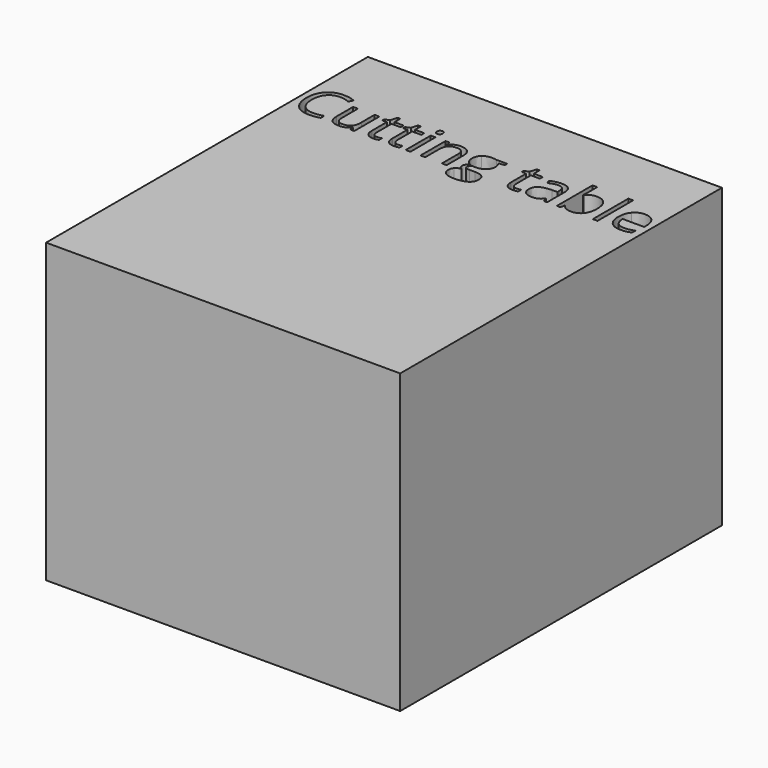
from build123d import *

# Parameters (mm, degrees)
F0_W     = 1028.7
F0_H     = 1168.4
F0_W_2   = 13.7929374837
F0_H_2   = 91.0227569971
F0_H_3   = 129.2390269422
F1_DEPTH = 863.6


with BuildPart() as f1:
    # F0 (on Top) → F1 (new body)
    with BuildSketch(Plane.XY):
        Rectangle(F0_W, F0_H)
        with BuildLine():
            add(Edge.make_bspline(
                [(-411.7417734763, 384.6701509605), (-425.53471096, 391.1281159095), (-439.3276484436, 391.1281159095)],
                knots=[0, 0, 0, 1, 1, 1], degree=2))
            add(Edge.make_bspline(
                [(-439.3276484436, 391.1281159095), (-459.3393669893, 391.1281159095), (-470.926497515, 377.8002582061)],
                knots=[0, 0, 0, 1, 1, 1], degree=2))
            add(Edge.make_bspline(
                [(-470.926497515, 377.8002582061), (-482.5136280408, 364.4724005027), (-482.5136280408, 341.2981394512)],
                knots=[0, 0, 0, 1, 1, 1], degree=2))
            add(Edge.make_bspline(
                [(-482.5136280408, 341.2981394512), (-482.5136280408, 317.486054701), (-471.3384253204, 304.4771088469)],
                knots=[0, 0, 0, 1, 1, 1], degree=2))
            add(Edge.make_bspline(
                [(-471.3384253204, 304.4771088469), (-460.1632226001, 291.4681629929), (-439.4871043683, 291.4681629929)],
                knots=[0, 0, 0, 1, 1, 1], degree=2))
            add(Edge.make_bspline(
                [(-439.4871043683, 291.4681629929), (-426.7837823699, 291.4681629929), (-410.4927020664, 296.0392328333)],
                knots=[0, 0, 0, 1, 1, 1], degree=2))
            Line((-410.4927020664, 296.0392328333), (-410.4927020664, 283.6813986717))
            add(Edge.make_bspline(
                [(-410.4927020664, 283.6813986717), (-423.1162961025, 278.9242969191), (-441.6397593513, 278.9242969191)],
                knots=[0, 0, 0, 1, 1, 1], degree=2))
            add(Edge.make_bspline(
                [(-441.6397593513, 278.9242969191), (-468.4549306827, 278.9242969191), (-483.031859796, 295.2153772226)],
                knots=[0, 0, 0, 1, 1, 1], degree=2))
            add(Edge.make_bspline(
                [(-483.031859796, 295.2153772226), (-497.6087889092, 311.506457526), (-497.6087889092, 341.4841713633)],
                knots=[0, 0, 0, 1, 1, 1], degree=2))
            add(Edge.make_bspline(
                [(-497.6087889092, 341.4841713633), (-497.6087889092, 360.246818499), (-490.5927282239, 374.358667832)],
                knots=[0, 0, 0, 1, 1, 1], degree=2))
            add(Edge.make_bspline(
                [(-490.5927282239, 374.358667832), (-483.5766675386, 388.470517165), (-470.3285377975, 396.1111135553)],
                knots=[0, 0, 0, 1, 1, 1], degree=2))
            add(Edge.make_bspline(
                [(-470.3285377975, 396.1111135553), (-457.0804080565, 403.7517099456), (-439.1416165315, 403.7517099456)],
                knots=[0, 0, 0, 1, 1, 1], degree=2))
            add(Edge.make_bspline(
                [(-439.1416165315, 403.7517099456), (-420.0600575464, 403.7517099456), (-405.7621763013, 396.7888012351)],
                knots=[0, 0, 0, 1, 1, 1], degree=2))
            Line((-405.7621763013, 396.7888012351), (-411.7417734763, 384.6701509605))
        make_face(mode=Mode.SUBTRACT)
        with BuildLine():
            Line((-387.0526811405, 371.6213411253), (-373.1002877321, 371.6213411253))
            Line((-373.1002877321, 371.6213411253), (-373.1002877321, 312.5694970238))
            add(Edge.make_bspline(
                [(-373.1002877321, 312.5694970238), (-373.1002877321, 301.4341582846), (-368.037562124, 295.959504871)],
                knots=[0, 0, 0, 1, 1, 1], degree=2))
            add(Edge.make_bspline(
                [(-368.037562124, 295.959504871), (-362.9748365158, 290.4848514575), (-352.1849856134, 290.4848514575)],
                knots=[0, 0, 0, 1, 1, 1], degree=2))
            add(Edge.make_bspline(
                [(-352.1849856134, 290.4848514575), (-337.8871043683, 290.4848514575), (-331.2962594821, 298.2849037724)],
                knots=[0, 0, 0, 1, 1, 1], degree=2))
            add(Edge.make_bspline(
                [(-331.2962594821, 298.2849037724), (-324.7054145959, 306.0849560873), (-324.7054145959, 323.7845637253)],
                knots=[0, 0, 0, 1, 1, 1], degree=2))
            Line((-324.7054145959, 323.7845637253), (-324.7054145959, 371.6213411253))
            Line((-324.7054145959, 371.6213411253), (-310.9124771122, 371.6213411253))
            Line((-310.9124771122, 371.6213411253), (-310.9124771122, 280.5985841281))
            Line((-310.9124771122, 280.5985841281), (-322.2869997384, 280.5985841281))
            Line((-322.2869997384, 280.5985841281), (-324.2801987968, 292.7969623651))
            Line((-324.2801987968, 292.7969623651), (-325.0243264452, 292.7969623651))
            add(Edge.make_bspline(
                [(-325.0243264452, 292.7969623651), (-329.2499084489, 286.0732375417), (-336.7709128956, 282.4987672304)],
                knots=[0, 0, 0, 1, 1, 1], degree=2))
            add(Edge.make_bspline(
                [(-336.7709128956, 282.4987672304), (-344.2919173424, 278.9242969191), (-353.9390007847, 278.9242969191)],
                knots=[0, 0, 0, 1, 1, 1], degree=2))
            add(Edge.make_bspline(
                [(-353.9390007847, 278.9242969191), (-370.5489929375, 278.9242969191), (-378.800837039, 286.8173651901)],
                knots=[0, 0, 0, 1, 1, 1], degree=2))
            add(Edge.make_bspline(
                [(-378.800837039, 286.8173651901), (-387.0526811405, 294.7104334611), (-387.0526811405, 312.0645532623)],
                knots=[0, 0, 0, 1, 1, 1], degree=2))
            Line((-387.0526811405, 312.0645532623), (-387.0526811405, 371.6213411253))
        make_face(mode=Mode.SUBTRACT)
        with BuildLine():
            add(Edge.make_bspline(
                [(-262.9959717499, 294.7237214548), (-259.0893015956, 290.3253955328), (-252.2858488098, 290.3253955328)],
                knots=[0, 0, 0, 1, 1, 1], degree=2))
            add(Edge.make_bspline(
                [(-252.2858488098, 290.3253955328), (-248.6183625425, 290.3253955328), (-245.2166361496, 290.8569152817)],
                knots=[0, 0, 0, 1, 1, 1], degree=2))
            add(Edge.make_bspline(
                [(-245.2166361496, 290.8569152817), (-241.8149097567, 291.3884350306), (-239.8217106984, 291.9731067543)],
                knots=[0, 0, 0, 1, 1, 1], degree=2))
            Line((-239.8217106984, 291.9731067543), (-239.8217106984, 281.4224397389))
            add(Edge.make_bspline(
                [(-239.8217106984, 281.4224397389), (-242.0540936437, 280.3594002411), (-246.4125555846, 279.6418485801)],
                knots=[0, 0, 0, 1, 1, 1], degree=2))
            add(Edge.make_bspline(
                [(-246.4125555846, 279.6418485801), (-250.7710175255, 278.9242969191), (-254.2790478682, 278.9242969191)],
                knots=[0, 0, 0, 1, 1, 1], degree=2))
            add(Edge.make_bspline(
                [(-254.2790478682, 278.9242969191), (-280.6690034005, 278.9242969191), (-280.6690034005, 306.7493557734)],
                knots=[0, 0, 0, 1, 1, 1], degree=2))
            Line((-280.6690034005, 306.7493557734), (-280.6690034005, 360.9112181852))
            Line((-280.6690034005, 360.9112181852), (-293.7178132357, 360.9112181852))
            Line((-293.7178132357, 360.9112181852), (-293.7178132357, 367.5552150463))
            Line((-293.7178132357, 367.5552150463), (-280.6690034005, 373.2956283343))
            Line((-280.6690034005, 373.2956283343), (-274.8754381376, 392.7226751561))
            Line((-274.8754381376, 392.7226751561), (-266.9026419043, 392.7226751561))
            Line((-266.9026419043, 392.7226751561), (-266.9026419043, 371.6213411253))
            Line((-266.9026419043, 371.6213411253), (-240.4861103845, 371.6213411253))
            Line((-240.4861103845, 371.6213411253), (-240.4861103845, 360.9112181852))
            Line((-240.4861103845, 360.9112181852), (-266.9026419043, 360.9112181852))
            Line((-266.9026419043, 360.9112181852), (-266.9026419043, 307.3340274972))
            add(Edge.make_bspline(
                [(-266.9026419043, 307.3340274972), (-266.9026419043, 299.1220473769), (-262.9959717499, 294.7237214548)],
                knots=[0, 0, 0, 1, 1, 1], degree=2))
        make_face(mode=Mode.SUBTRACT)
        with BuildLine():
            add(Edge.make_bspline(
                [(-202.960816113, 294.7237214548), (-199.0541459587, 290.3253955328), (-192.2506931729, 290.3253955328)],
                knots=[0, 0, 0, 1, 1, 1], degree=2))
            add(Edge.make_bspline(
                [(-192.2506931729, 290.3253955328), (-188.5832069056, 290.3253955328), (-185.1814805127, 290.8569152817)],
                knots=[0, 0, 0, 1, 1, 1], degree=2))
            add(Edge.make_bspline(
                [(-185.1814805127, 290.8569152817), (-181.7797541198, 291.3884350306), (-179.7865550615, 291.9731067543)],
                knots=[0, 0, 0, 1, 1, 1], degree=2))
            Line((-179.7865550615, 291.9731067543), (-179.7865550615, 281.4224397389))
            add(Edge.make_bspline(
                [(-179.7865550615, 281.4224397389), (-182.0189380068, 280.3594002411), (-186.3773999477, 279.6418485801)],
                knots=[0, 0, 0, 1, 1, 1], degree=2))
            add(Edge.make_bspline(
                [(-186.3773999477, 279.6418485801), (-190.7358618886, 278.9242969191), (-194.2438922312, 278.9242969191)],
                knots=[0, 0, 0, 1, 1, 1], degree=2))
            add(Edge.make_bspline(
                [(-194.2438922312, 278.9242969191), (-220.6338477635, 278.9242969191), (-220.6338477635, 306.7493557734)],
                knots=[0, 0, 0, 1, 1, 1], degree=2))
            Line((-220.6338477635, 306.7493557734), (-220.6338477635, 360.9112181852))
            Line((-220.6338477635, 360.9112181852), (-233.6826575987, 360.9112181852))
            Line((-233.6826575987, 360.9112181852), (-233.6826575987, 367.5552150463))
            Line((-233.6826575987, 367.5552150463), (-220.6338477635, 373.2956283343))
            Line((-220.6338477635, 373.2956283343), (-214.8402825007, 392.7226751561))
            Line((-214.8402825007, 392.7226751561), (-206.8674862673, 392.7226751561))
            Line((-206.8674862673, 392.7226751561), (-206.8674862673, 371.6213411253))
            Line((-206.8674862673, 371.6213411253), (-180.4509547476, 371.6213411253))
            Line((-180.4509547476, 371.6213411253), (-180.4509547476, 360.9112181852))
            Line((-180.4509547476, 360.9112181852), (-206.8674862673, 360.9112181852))
            Line((-206.8674862673, 360.9112181852), (-206.8674862673, 307.3340274972))
            add(Edge.make_bspline(
                [(-206.8674862673, 307.3340274972), (-206.8674862673, 299.1220473769), (-202.960816113, 294.7237214548)],
                knots=[0, 0, 0, 1, 1, 1], degree=2))
        make_face(mode=Mode.SUBTRACT)
        with Locations((-154.7121109077, 326.1099626267)):
            Rectangle(F0_W_2, F0_H_2, mode=Mode.SUBTRACT)
        with BuildLine():
            add(Edge.make_bspline(
                [(-160.4525241957, 389.3475247507), (-162.777923097, 391.6330596709), (-162.777923097, 396.2838574737)],
                knots=[0, 0, 0, 1, 1, 1], degree=2))
            add(Edge.make_bspline(
                [(-162.777923097, 396.2838574737), (-162.777923097, 401.0143832388), (-160.4525241957, 403.2201901967)],
                knots=[0, 0, 0, 1, 1, 1], degree=2))
            add(Edge.make_bspline(
                [(-160.4525241957, 403.2201901967), (-158.1271252943, 405.4259971546), (-154.6190949516, 405.4259971546)],
                knots=[0, 0, 0, 1, 1, 1], degree=2))
            add(Edge.make_bspline(
                [(-154.6190949516, 405.4259971546), (-151.2970965211, 405.4259971546), (-148.8919696573, 403.1803262155)],
                knots=[0, 0, 0, 1, 1, 1], degree=2))
            add(Edge.make_bspline(
                [(-148.8919696573, 403.1803262155), (-146.4868427936, 400.9346552764), (-146.4868427936, 396.2838574737)],
                knots=[0, 0, 0, 1, 1, 1], degree=2))
            add(Edge.make_bspline(
                [(-146.4868427936, 396.2838574737), (-146.4868427936, 391.6330596709), (-148.8919696573, 389.3475247507)],
                knots=[0, 0, 0, 1, 1, 1], degree=2))
            add(Edge.make_bspline(
                [(-148.8919696573, 389.3475247507), (-151.2970965211, 387.0619898305), (-154.6190949516, 387.0619898305)],
                knots=[0, 0, 0, 1, 1, 1], degree=2))
            add(Edge.make_bspline(
                [(-154.6190949516, 387.0619898305), (-158.1271252943, 387.0619898305), (-160.4525241957, 389.3475247507)],
                knots=[0, 0, 0, 1, 1, 1], degree=2))
        make_face(mode=Mode.SUBTRACT)
        with BuildLine():
            Line((-42.4950039236, 280.5985841281), (-56.2879414073, 280.5985841281))
            Line((-56.2879414073, 280.5985841281), (-56.2879414073, 339.490972305))
            add(Edge.make_bspline(
                [(-56.2879414073, 339.490972305), (-56.2879414073, 350.5997350567), (-61.3506670154, 356.087676464)],
                knots=[0, 0, 0, 1, 1, 1], degree=2))
            add(Edge.make_bspline(
                [(-61.3506670154, 356.087676464), (-66.4133926236, 361.5756178713), (-77.2298195135, 361.5756178713)],
                knots=[0, 0, 0, 1, 1, 1], degree=2))
            add(Edge.make_bspline(
                [(-77.2298195135, 361.5756178713), (-91.5011247711, 361.5756178713), (-98.1451216322, 353.8552935187)],
                knots=[0, 0, 0, 1, 1, 1], degree=2))
            add(Edge.make_bspline(
                [(-98.1451216322, 353.8552935187), (-104.7891184933, 346.1349691661), (-104.7891184933, 328.3556335658)],
                knots=[0, 0, 0, 1, 1, 1], degree=2))
            Line((-104.7891184933, 328.3556335658), (-104.7891184933, 280.5985841281))
            Line((-104.7891184933, 280.5985841281), (-118.582055977, 280.5985841281))
            Line((-118.582055977, 280.5985841281), (-118.582055977, 371.6213411253))
            Line((-118.582055977, 371.6213411253), (-107.3669892754, 371.6213411253))
            Line((-107.3669892754, 371.6213411253), (-105.1346063301, 359.1572030138))
            Line((-105.1346063301, 359.1572030138), (-104.470206644, 359.1572030138))
            add(Edge.make_bspline(
                [(-104.470206644, 359.1572030138), (-100.2180486529, 365.8809278373), (-92.5774522626, 369.5882780858)],
                knots=[0, 0, 0, 1, 1, 1], degree=2))
            add(Edge.make_bspline(
                [(-92.5774522626, 369.5882780858), (-84.9368558724, 373.2956283343), (-75.5555323045, 373.2956283343)],
                knots=[0, 0, 0, 1, 1, 1], degree=2))
            add(Edge.make_bspline(
                [(-75.5555323045, 373.2956283343), (-59.1049960764, 373.2956283343), (-50.8, 365.3626960821)],
                knots=[0, 0, 0, 1, 1, 1], degree=2))
            add(Edge.make_bspline(
                [(-50.8, 365.3626960821), (-42.4950039236, 357.4297638299), (-42.4950039236, 339.969340079)],
                knots=[0, 0, 0, 1, 1, 1], degree=2))
            Line((-42.4950039236, 339.969340079), (-42.4950039236, 280.5985841281))
        make_face(mode=Mode.SUBTRACT)
        with BuildLine():
            Line((28.8349463772, 371.6213411253), (60.3009155114, 371.6213411253))
            Line((60.3009155114, 371.6213411253), (60.3009155114, 362.9044172435))
            Line((60.3009155114, 362.9044172435), (43.4517394716, 360.9112181852))
            add(Edge.make_bspline(
                [(43.4517394716, 360.9112181852), (45.7638503793, 358.0144355537), (47.5975935129, 353.3104857761)],
                knots=[0, 0, 0, 1, 1, 1], degree=2))
            add(Edge.make_bspline(
                [(47.5975935129, 353.3104857761), (49.4313366466, 348.6065359984), (49.4313366466, 342.7332427732)],
                knots=[0, 0, 0, 1, 1, 1], degree=2))
            add(Edge.make_bspline(
                [(49.4313366466, 342.7332427732), (49.4313366466, 329.3389451012), (40.2891969657, 321.3661488679)],
                knots=[0, 0, 0, 1, 1, 1], degree=2))
            add(Edge.make_bspline(
                [(40.2891969657, 321.3661488679), (31.1470572849, 313.3933526345), (15.2014648182, 313.3933526345)],
                knots=[0, 0, 0, 1, 1, 1], degree=2))
            add(Edge.make_bspline(
                [(15.2014648182, 313.3933526345), (11.1353387392, 313.3933526345), (7.5741564217, 314.0577523207)],
                knots=[0, 0, 0, 1, 1, 1], degree=2))
            add(Edge.make_bspline(
                [(7.5741564217, 314.0577523207), (-1.2224954224, 309.4069545179), (-1.2224954224, 302.3643178451)],
                knots=[0, 0, 0, 1, 1, 1], degree=2))
            add(Edge.make_bspline(
                [(-1.2224954224, 302.3643178451), (-1.2224954224, 298.6171036155), (1.8470311274, 296.8365124567)],
                knots=[0, 0, 0, 1, 1, 1], degree=2))
            add(Edge.make_bspline(
                [(1.8470311274, 296.8365124567), (4.9165576772, 295.0559212979), (12.3844101491, 295.0559212979)],
                knots=[0, 0, 0, 1, 1, 1], degree=2))
            Line((12.3844101491, 295.0559212979), (28.4894585404, 295.0559212979))
            add(Edge.make_bspline(
                [(28.4894585404, 295.0559212979), (43.292283547, 295.0559212979), (51.2119278054, 288.8238522422)],
                knots=[0, 0, 0, 1, 1, 1], degree=2))
            add(Edge.make_bspline(
                [(51.2119278054, 288.8238522422), (59.1315720638, 282.5917831865), (59.1315720638, 270.7123167988)],
                knots=[0, 0, 0, 1, 1, 1], degree=2))
            add(Edge.make_bspline(
                [(59.1315720638, 270.7123167988), (59.1315720638, 255.5905799429), (47.0129217892, 247.6576476908)],
                knots=[0, 0, 0, 1, 1, 1], degree=2))
            add(Edge.make_bspline(
                [(47.0129217892, 247.6576476908), (34.8942715145, 239.7247154386), (11.6402825007, 239.7247154386)],
                knots=[0, 0, 0, 1, 1, 1], degree=2))
            add(Edge.make_bspline(
                [(11.6402825007, 239.7247154386), (-6.218781062, 239.7247154386), (-15.8924404918, 246.3687122997)],
                knots=[0, 0, 0, 1, 1, 1], degree=2))
            add(Edge.make_bspline(
                [(-15.8924404918, 246.3687122997), (-25.5660999215, 253.0127091608), (-25.5660999215, 265.1579354229)],
                knots=[0, 0, 0, 1, 1, 1], degree=2))
            add(Edge.make_bspline(
                [(-25.5660999215, 265.1579354229), (-25.5660999215, 273.4496435056), (-20.2509024326, 279.5222566366)],
                knots=[0, 0, 0, 1, 1, 1], degree=2))
            add(Edge.make_bspline(
                [(-20.2509024326, 279.5222566366), (-14.9357049438, 285.5948697677), (-5.3151974889, 287.7475247507)],
                knots=[0, 0, 0, 1, 1, 1], degree=2))
            add(Edge.make_bspline(
                [(-5.3151974889, 287.7475247507), (-8.7966518441, 289.3155080099), (-11.1619147267, 292.6375064405)],
                knots=[0, 0, 0, 1, 1, 1], degree=2))
            add(Edge.make_bspline(
                [(-11.1619147267, 292.6375064405), (-13.5271776092, 295.959504871), (-13.5271776092, 300.3711187868)],
                knots=[0, 0, 0, 1, 1, 1], degree=2))
            add(Edge.make_bspline(
                [(-13.5271776092, 300.3711187868), (-13.5271776092, 305.3408284389), (-10.8695788648, 309.0880426686)],
                knots=[0, 0, 0, 1, 1, 1], degree=2))
            add(Edge.make_bspline(
                [(-10.8695788648, 309.0880426686), (-8.2119801203, 312.8352568982), (-2.4715668323, 316.3167112534)],
                knots=[0, 0, 0, 1, 1, 1], degree=2))
            add(Edge.make_bspline(
                [(-2.4715668323, 316.3167112534), (-9.5407794925, 319.2134938849), (-13.9789693958, 326.189690589)],
                knots=[0, 0, 0, 1, 1, 1], degree=2))
            add(Edge.make_bspline(
                [(-13.9789693958, 326.189690589), (-18.417159299, 333.1658872932), (-18.417159299, 342.1485710494)],
                knots=[0, 0, 0, 1, 1, 1], degree=2))
            add(Edge.make_bspline(
                [(-18.417159299, 342.1485710494), (-18.417159299, 357.0842759932), (-9.4477635365, 365.1899521637)],
                knots=[0, 0, 0, 1, 1, 1], degree=2))
            add(Edge.make_bspline(
                [(-9.4477635365, 365.1899521637), (-0.478367774, 373.2956283343), (15.9455924666, 373.2956283343)],
                knots=[0, 0, 0, 1, 1, 1], degree=2))
            add(Edge.make_bspline(
                [(15.9455924666, 373.2956283343), (23.0945330892, 373.2956283343), (28.8349463772, 371.6213411253)],
                knots=[0, 0, 0, 1, 1, 1], degree=2))
        make_face(mode=Mode.SUBTRACT)
        with BuildLine():
            add(Edge.make_bspline(
                [(141.8626209783, 294.7237214548), (145.7692911326, 290.3253955328), (152.5727439184, 290.3253955328)],
                knots=[0, 0, 0, 1, 1, 1], degree=2))
            add(Edge.make_bspline(
                [(152.5727439184, 290.3253955328), (156.2402301857, 290.3253955328), (159.6419565786, 290.8569152817)],
                knots=[0, 0, 0, 1, 1, 1], degree=2))
            add(Edge.make_bspline(
                [(159.6419565786, 290.8569152817), (163.0436829715, 291.3884350306), (165.0368820298, 291.9731067543)],
                knots=[0, 0, 0, 1, 1, 1], degree=2))
            Line((165.0368820298, 291.9731067543), (165.0368820298, 281.4224397389))
            add(Edge.make_bspline(
                [(165.0368820298, 281.4224397389), (162.8044990845, 280.3594002411), (158.4460371436, 279.6418485801)],
                knots=[0, 0, 0, 1, 1, 1], degree=2))
            add(Edge.make_bspline(
                [(158.4460371436, 279.6418485801), (154.0875752027, 278.9242969191), (150.5795448601, 278.9242969191)],
                knots=[0, 0, 0, 1, 1, 1], degree=2))
            add(Edge.make_bspline(
                [(150.5795448601, 278.9242969191), (124.1895893278, 278.9242969191), (124.1895893278, 306.7493557734)],
                knots=[0, 0, 0, 1, 1, 1], degree=2))
            Line((124.1895893278, 306.7493557734), (124.1895893278, 360.9112181852))
            Line((124.1895893278, 360.9112181852), (111.1407794925, 360.9112181852))
            Line((111.1407794925, 360.9112181852), (111.1407794925, 367.5552150463))
            Line((111.1407794925, 367.5552150463), (124.1895893278, 373.2956283343))
            Line((124.1895893278, 373.2956283343), (129.9831545906, 392.7226751561))
            Line((129.9831545906, 392.7226751561), (137.955950824, 392.7226751561))
            Line((137.955950824, 392.7226751561), (137.955950824, 371.6213411253))
            Line((137.955950824, 371.6213411253), (164.3724823437, 371.6213411253))
            Line((164.3724823437, 371.6213411253), (164.3724823437, 360.9112181852))
            Line((164.3724823437, 360.9112181852), (137.955950824, 360.9112181852))
            Line((137.955950824, 360.9112181852), (137.955950824, 307.3340274972))
            add(Edge.make_bspline(
                [(137.955950824, 307.3340274972), (137.955950824, 299.1220473769), (141.8626209783, 294.7237214548)],
                knots=[0, 0, 0, 1, 1, 1], degree=2))
        make_face(mode=Mode.SUBTRACT)
        with BuildLine():
            Line((249.4156421658, 280.5985841281), (239.1838869997, 280.5985841281))
            Line((239.1838869997, 280.5985841281), (236.446560293, 293.567666001))
            Line((236.446560293, 293.567666001), (235.7821606069, 293.567666001))
            add(Edge.make_bspline(
                [(235.7821606069, 293.567666001), (228.9787078211, 285.0101980439), (222.2151190165, 281.9672474815)],
                knots=[0, 0, 0, 1, 1, 1], degree=2))
            add(Edge.make_bspline(
                [(222.2151190165, 281.9672474815), (215.4515302119, 278.9242969191), (205.2995030081, 278.9242969191)],
                knots=[0, 0, 0, 1, 1, 1], degree=2))
            add(Edge.make_bspline(
                [(205.2995030081, 278.9242969191), (191.7723253989, 278.9242969191), (184.0918650275, 285.913781617)],
                knots=[0, 0, 0, 1, 1, 1], degree=2))
            add(Edge.make_bspline(
                [(184.0918650275, 285.913781617), (176.411404656, 292.9032663149), (176.411404656, 305.766044238)],
                knots=[0, 0, 0, 1, 1, 1], degree=2))
            add(Edge.make_bspline(
                [(176.411404656, 305.766044238), (176.411404656, 333.3253432179), (220.5009678263, 334.6541425901)],
                knots=[0, 0, 0, 1, 1, 1], degree=2))
            Line((220.5009678263, 334.6541425901), (235.9416165315, 335.1590863515))
            Line((235.9416165315, 335.1590863515), (235.9416165315, 340.8197716772))
            add(Edge.make_bspline(
                [(235.9416165315, 340.8197716772), (235.9416165315, 351.5298946173), (231.3439707036, 356.6324842066)],
                knots=[0, 0, 0, 1, 1, 1], degree=2))
            add(Edge.make_bspline(
                [(231.3439707036, 356.6324842066), (226.7463248758, 361.7350737959), (216.594297672, 361.7350737959)],
                knots=[0, 0, 0, 1, 1, 1], degree=2))
            add(Edge.make_bspline(
                [(216.594297672, 361.7350737959), (205.2197750458, 361.7350737959), (190.8687418258, 354.7721650855)],
                knots=[0, 0, 0, 1, 1, 1], degree=2))
            Line((190.8687418258, 354.7721650855), (186.6165838347, 365.3228321009))
            add(Edge.make_bspline(
                [(186.6165838347, 365.3228321009), (193.3403086581, 368.9637423808), (201.3529688726, 371.0366694015)],
                knots=[0, 0, 0, 1, 1, 1], degree=2))
            add(Edge.make_bspline(
                [(201.3529688726, 371.0366694015), (209.3656290871, 373.1095964221), (217.4447292702, 373.1095964221)],
                knots=[0, 0, 0, 1, 1, 1], degree=2))
            add(Edge.make_bspline(
                [(217.4447292702, 373.1095964221), (233.7092335862, 373.1095964221), (241.562437876, 365.894215831)],
                knots=[0, 0, 0, 1, 1, 1], degree=2))
            add(Edge.make_bspline(
                [(241.562437876, 365.894215831), (249.4156421658, 358.6788352398), (249.4156421658, 342.7332427732)],
                knots=[0, 0, 0, 1, 1, 1], degree=2))
            Line((249.4156421658, 342.7332427732), (249.4156421658, 280.5985841281))
        make_face(mode=Mode.SUBTRACT)
        with BuildLine():
            add(Edge.make_bspline(
                [(291.5917342401, 359.5026908506), (301.212241695, 373.1095964221), (320.1609207429, 373.1095964221)],
                knots=[0, 0, 0, 1, 1, 1], degree=2))
            add(Edge.make_bspline(
                [(320.1609207429, 373.1095964221), (338.0997122679, 373.1095964221), (348.0258435783, 360.8580662103)],
                knots=[0, 0, 0, 1, 1, 1], degree=2))
            add(Edge.make_bspline(
                [(348.0258435783, 360.8580662103), (357.9519748888, 348.6065359984), (357.9519748888, 326.2029785828)],
                knots=[0, 0, 0, 1, 1, 1], degree=2))
            add(Edge.make_bspline(
                [(357.9519748888, 326.2029785828), (357.9519748888, 303.7728451797), (347.946115616, 291.3485710494)],
                knots=[0, 0, 0, 1, 1, 1], degree=2))
            add(Edge.make_bspline(
                [(347.946115616, 291.3485710494), (337.9402563432, 278.9242969191), (320.1609207429, 278.9242969191)],
                knots=[0, 0, 0, 1, 1, 1], degree=2))
            add(Edge.make_bspline(
                [(320.1609207429, 278.9242969191), (311.257964949, 278.9242969191), (303.9097044206, 282.2064313685)],
                knots=[0, 0, 0, 1, 1, 1], degree=2))
            add(Edge.make_bspline(
                [(303.9097044206, 282.2064313685), (296.5614438922, 285.4885658179), (291.5917342401, 292.3185945911)],
                knots=[0, 0, 0, 1, 1, 1], degree=2))
            Line((291.5917342401, 292.3185945911), (290.5818467172, 292.3185945911))
            Line((290.5818467172, 292.3185945911), (287.6850640858, 280.5985841281))
            Line((287.6850640858, 280.5985841281), (277.7987967565, 280.5985841281))
            Line((277.7987967565, 280.5985841281), (277.7987967565, 409.8376110703))
            Line((277.7987967565, 409.8376110703), (291.5917342401, 409.8376110703))
            Line((291.5917342401, 409.8376110703), (291.5917342401, 378.424793911))
            add(Edge.make_bspline(
                [(291.5917342401, 378.424793911), (291.5917342401, 367.8741268956), (290.927334554, 359.5026908506)],
                knots=[0, 0, 0, 1, 1, 1], degree=2))
            Line((290.927334554, 359.5026908506), (291.5917342401, 359.5026908506))
        make_face(mode=Mode.SUBTRACT)
        with Locations((388.9262882553, 345.2180975992)):
            Rectangle(F0_W_2, F0_H_3, mode=Mode.SUBTRACT)
        with BuildLine():
            add(Edge.make_bspline(
                [(479.2447815851, 280.3062482662), (472.7336646613, 278.9242969191), (463.511797018, 278.9242969191)],
                knots=[0, 0, 0, 1, 1, 1], degree=2))
            add(Edge.make_bspline(
                [(463.511797018, 278.9242969191), (443.3406225477, 278.9242969191), (431.6604760659, 291.2289791059)],
                knots=[0, 0, 0, 1, 1, 1], degree=2))
            add(Edge.make_bspline(
                [(431.6604760659, 291.2289791059), (419.9803295841, 303.5336612927), (419.9803295841, 325.3525469845)],
                knots=[0, 0, 0, 1, 1, 1], degree=2))
            add(Edge.make_bspline(
                [(419.9803295841, 325.3525469845), (419.9803295841, 347.384040576), (430.8233324614, 360.3398344551)],
                knots=[0, 0, 0, 1, 1, 1], degree=2))
            add(Edge.make_bspline(
                [(430.8233324614, 360.3398344551), (441.6663353387, 373.2956283343), (459.9506147005, 373.2956283343)],
                knots=[0, 0, 0, 1, 1, 1], degree=2))
            add(Edge.make_bspline(
                [(459.9506147005, 373.2956283343), (477.0389746273, 373.2956283343), (487.0049699189, 362.0406976515)],
                knots=[0, 0, 0, 1, 1, 1], degree=2))
            add(Edge.make_bspline(
                [(487.0049699189, 362.0406976515), (496.9709652106, 350.7857669688), (496.9709652106, 332.3420316824)],
                knots=[0, 0, 0, 1, 1, 1], degree=2))
            Line((496.9709652106, 332.3420316824), (496.9709652106, 323.6251078006))
            Line((496.9709652106, 323.6251078006), (434.2782108292, 323.6251078006))
            add(Edge.make_bspline(
                [(434.2782108292, 323.6251078006), (434.7034266283, 307.5997873717), (442.3838869997, 299.2947912953)],
                knots=[0, 0, 0, 1, 1, 1], degree=2))
            add(Edge.make_bspline(
                [(442.3838869997, 299.2947912953), (450.0643473712, 290.9897952189), (464.0167407795, 290.9897952189)],
                knots=[0, 0, 0, 1, 1, 1], degree=2))
            add(Edge.make_bspline(
                [(464.0167407795, 290.9897952189), (478.7132618363, 290.9897952189), (493.0642950562, 297.1288483186)],
                knots=[0, 0, 0, 1, 1, 1], degree=2))
            Line((493.0642950562, 297.1288483186), (493.0642950562, 284.8241661318))
            add(Edge.make_bspline(
                [(493.0642950562, 284.8241661318), (485.755898509, 281.6881996134), (479.2447815851, 280.3062482662)],
                knots=[0, 0, 0, 1, 1, 1], degree=2))
        make_face(mode=Mode.SUBTRACT)
    extrude(amount=F1_DEPTH)


solid = f1.part
